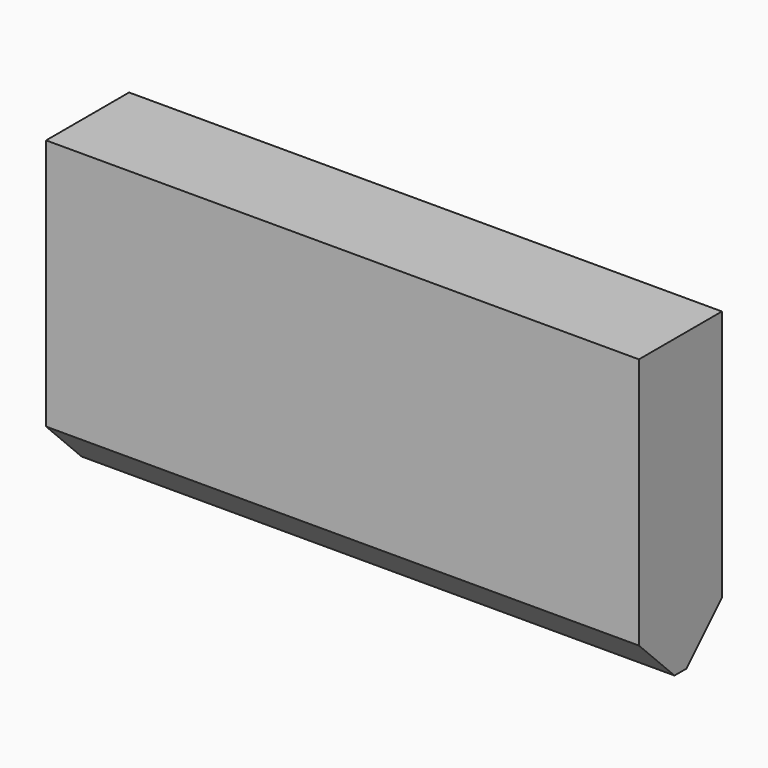
from build123d import *

# Parameters (mm, degrees)
F0_W     = 35
F0_H     = 100
F1_DEPTH = 100
F2_SIZE  = 15


with BuildPart() as f1:
    # F0 (on Right) → F1 (new body, symmetric)
    with BuildSketch(Plane.YZ):
        Rectangle(F0_W, F0_H)
    extrude(amount=F1_DEPTH, both=True)

    # F2
    f2_edges = [f1.edges().sort_by_distance(p)[0] for p in [
        (0, -17.5, -50),
        (0, 17.5, -50),
    ]]
    chamfer(f2_edges, length=F2_SIZE)


solid = f1.part
